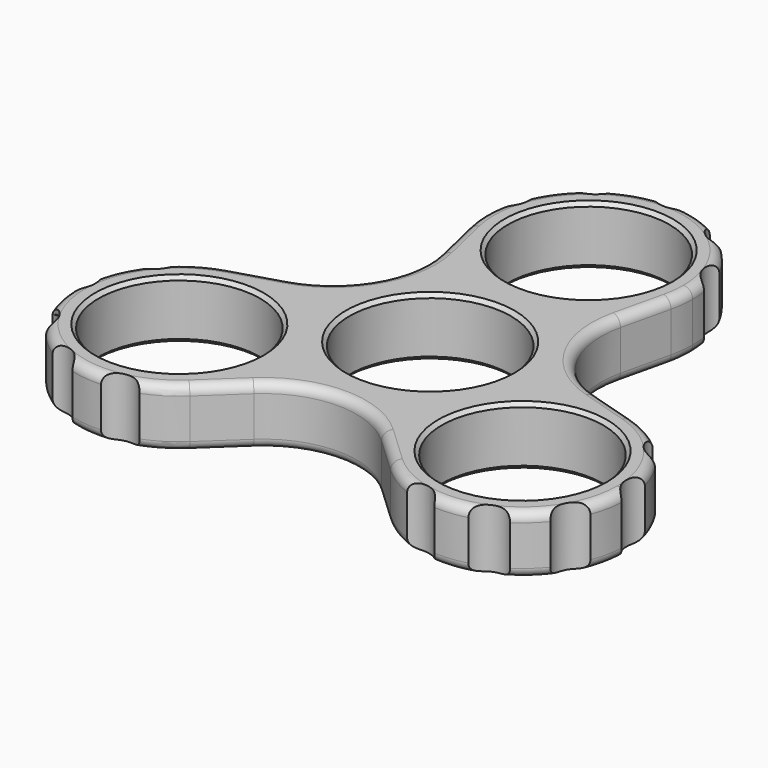
from build123d import *

# Parameters (mm, degrees)
F0_R     = 11
F1_DEPTH = 8
F2_SIZE  = 0.5
F3_R     = 1.27
F4_R     = 2.97
F5_DEPTH = 25.4


with BuildPart() as f1:
    # F0 (on Top) → F1 (new body)
    with BuildSketch(Plane.XY):
        with BuildLine():
            ThreePointArc((13.8015634619, 23.7552452132), (14.0813313837, 25.3606221731), (14.175, 26.9875))
            ThreePointArc((14.175, 26.9875), (-1.6268778269, 41.0688313837), (-13.8015634619, 23.7552452132))
            ThreePointArc((-13.8015634619, 23.7552452132), (0, 12.8125), (13.8015634619, 23.7552452132))
        make_face()
        with Locations((0, 26.9875)):
            Circle(F0_R, mode=Mode.SUBTRACT)
        with BuildLine():
            ThreePointArc((13.8015634619, 23.7552452132), (0, 12.8125), (-13.8015634619, 23.7552452132))
            Line((-13.8015634619, 23.7552452132), (-12.2439040675, 17.1041188626))
            ThreePointArc((-12.2439040675, 17.1041188626), (-13.6108033771, 7.8582009937), (-20.9345534781, 2.0514725327))
            Line((-20.9345534781, 2.0514725327), (-27.4734275588, 0.0748819633))
            ThreePointArc((-27.4734275588, 0.0748819633), (-14.9222773659, -2.1123982161), (-9.1968605846, -13.49375))
            ThreePointArc((-9.1968605846, -13.49375), (-10.3636309738, -19.1254981649), (-13.6718640968, -23.8301271766))
            Line((-13.6718640968, -23.8301271766), (-8.6906494106, -19.1555913952))
            ThreePointArc((-8.6906494106, -19.1555913952), (0, -15.7164019873), (8.6906494106, -19.1555913952))
            Line((8.6906494106, -19.1555913952), (13.6718640968, -23.8301271766))
            ThreePointArc((13.6718640968, -23.8301271766), (11.095950486, -6.40625), (27.4734275588, 0.0748819633))
            Line((27.4734275588, 0.0748819633), (20.9345534781, 2.0514725327))
            ThreePointArc((20.9345534781, 2.0514725327), (13.6108033771, 7.8582009937), (12.2439040675, 17.1041188626))
            Line((12.2439040675, 17.1041188626), (13.8015634619, 23.7552452132))
        make_face()
        Circle(F0_R, mode=Mode.SUBTRACT)
        with BuildLine():
            ThreePointArc((-9.1968605846, -13.49375), (-14.9222773659, -2.1123982161), (-27.4734275588, 0.0748819633))
            ThreePointArc((-27.4734275588, 0.0748819633), (-35.6477706833, -20.58125), (-13.6718640968, -23.8301271766))
            ThreePointArc((-13.6718640968, -23.8301271766), (-10.3636309738, -19.1254981649), (-9.1968605846, -13.49375))
        make_face()
        with Locations((-23.3718605846, -13.49375)):
            Circle(F0_R, mode=Mode.SUBTRACT)
        with BuildLine():
            ThreePointArc((37.5468605846, -13.49375), (34.7532123685, -5.0441667812), (27.4734275588, 0.0748819633))
            ThreePointArc((27.4734275588, 0.0748819633), (11.095950486, -6.40625), (13.6718640968, -23.8301271766))
            ThreePointArc((13.6718640968, -23.8301271766), (29.0036087495, -26.5019796108), (37.5468605846, -13.49375))
        make_face()
        with Locations((23.3718605846, -13.49375)):
            Circle(F0_R, mode=Mode.SUBTRACT)
    extrude(amount=F1_DEPTH)

    # F2
    f2_edges = [f1.edges().sort_by_distance(p)[0] for p in [
        (-11, 26.9875, 8),
        (-11, 0, 8),
        (12.371861, -13.49375, 8),
        (-34.371861, -13.49375, 8),
        (-11, 0, 0),
        (-34.371861, -13.49375, 0),
        (-11, 26.9875, 0),
        (12.371861, -13.49375, 0),
    ]]
    chamfer(f2_edges, length=F2_SIZE)

    # F3
    f3_edges = [f1.edges().sort_by_distance(p)[0] for p in [
        (13.801563, 23.755245, 4),
        (-13.801563, 23.755245, 4),
        (0, 41.1625, 0),
        (0, 41.1625, 8),
    ]]
    fillet(f3_edges, radius=F3_R)

    # F4 (on face) → F5 (cut)
    with BuildSketch(Plane(origin=(0, 0, 0), x_dir=(1, 0, 0), z_dir=(0, 0, -1))):
        with Locations((-20.0712624929, 29.0218431616)):
            Circle(F4_R)
        with Locations((-29.8288047935, 27.9962841401)):
            Circle(F4_R)
        with Locations((-37.1200138697, 21.43125)):
            Circle(F4_R)
        with Locations((-39.1598956736, 11.8343606456)):
            Circle(F4_R)
        with Locations((-35.1692846891, 2.8713016241)):
            Circle(F4_R)
        with Locations((-15.0980221962, -31.8931447857)):
            Circle(F4_R)
        with Locations((-9.3310908801, -39.8306447857)):
            Circle(F4_R)
        with Locations((0, -42.8625)):
            Circle(F4_R)
        with Locations((9.3310908801, -39.8306447857)):
            Circle(F4_R)
        with Locations((15.0980221962, -31.8931447857)):
            Circle(F4_R)
        with Locations((35.1692846891, 2.8713016241)):
            Circle(F4_R)
        with Locations((39.1598956736, 11.8343606456)):
            Circle(F4_R)
        with Locations((37.1200138697, 21.43125)):
            Circle(F4_R)
        with Locations((29.8288047935, 27.9962841401)):
            Circle(F4_R)
        with Locations((20.0712624929, 29.0218431616)):
            Circle(F4_R)
    extrude(amount=-F5_DEPTH, mode=Mode.SUBTRACT)


solid = f1.part
